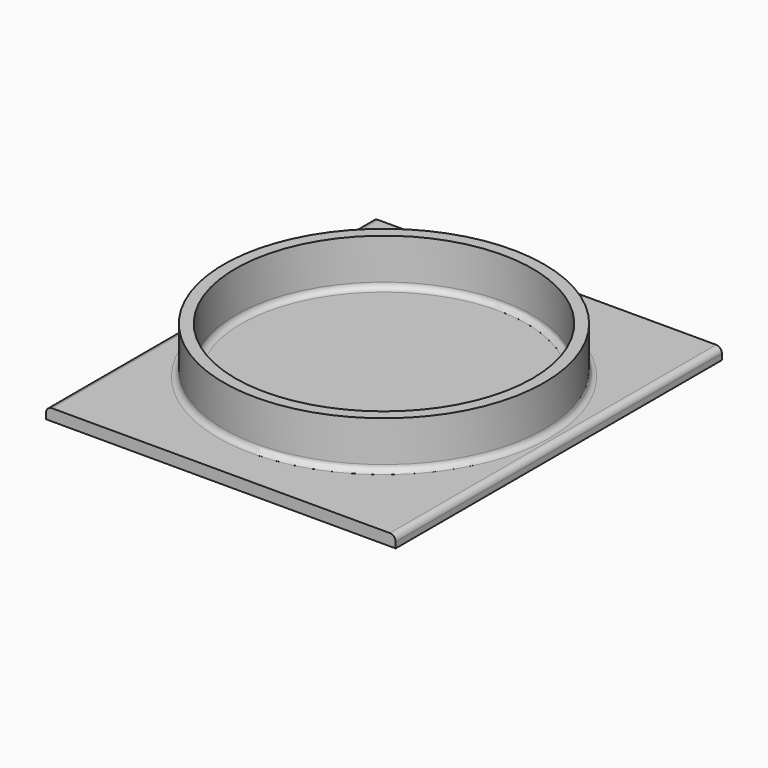
from build123d import *

# Parameters (mm, degrees)
F0_W     = 76.2
F0_H     = 88.9
F1_DEPTH = 2.54
F2_R     = 34.925
F3_DEPTH = 10.16
F4_R     = 32.385
F5_DEPTH = 10.16
F6_R     = 1.27


with BuildPart() as f1:
    # F0 (on Top) → F1 (new body)
    with BuildSketch(Plane.XY):
        with Locations((38.1, 44.45)):
            Rectangle(F0_W, F0_H)
    extrude(amount=F1_DEPTH)

    # F2 (on face) → F3 (join)
    with BuildSketch(Plane.XY.offset(2.54)):
        with Locations((38.1, 44.45)):
            Circle(F2_R)
    extrude(amount=F3_DEPTH)

    # F4 (on face) → F5 (cut)
    with BuildSketch(Plane.XY.offset(12.7)):
        with Locations((38.1, 44.45)):
            Circle(F4_R)
    extrude(amount=-F5_DEPTH, mode=Mode.SUBTRACT)

    # F6
    f6_edges = [f1.edges().sort_by_distance(p)[0] for p in [
        (5.715, 44.45, 2.54),
        (0, 44.45, 2.54),
        (76.2, 44.45, 2.54),
        (3.175, 44.45, 2.54),
    ]]
    fillet(f6_edges, radius=F6_R)


solid = f1.part
